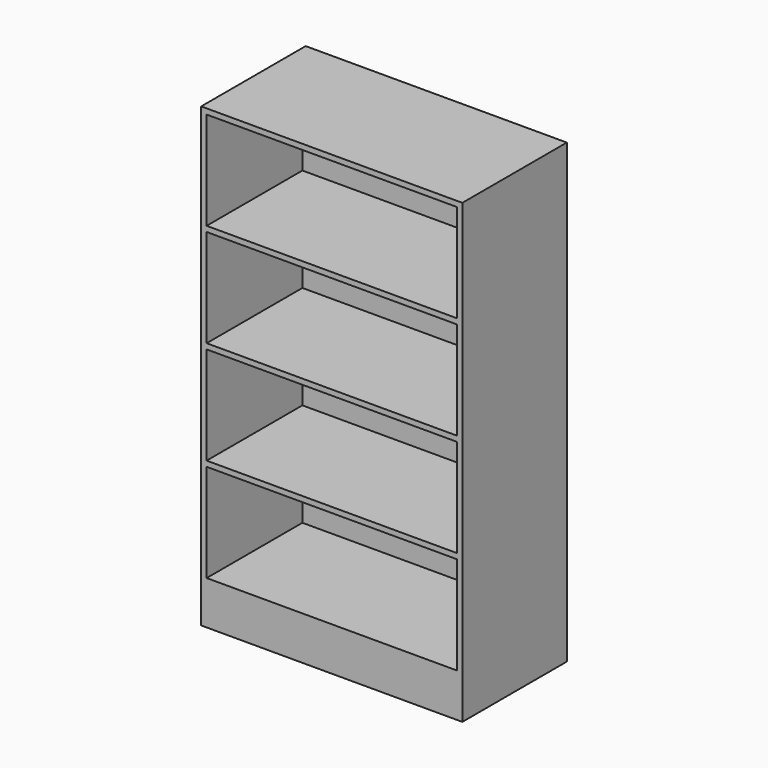
from build123d import *

# Parameters (mm, degrees)
BOX022_W     = 1168.4
BOX022_H     = 558.8
BOX022_DEPTH = 457.2
BOX021_W     = 1168.4
BOX021_H     = 558.8
BOX021_DEPTH = 457.2
BOX020_W     = 1168.4
BOX020_H     = 558.8
BOX020_DEPTH = 457.2
BOX019_W     = 1168.4
BOX019_H     = 558.8
BOX019_DEPTH = 457.2
BOX018_W     = 1219.2
BOX018_H     = 609.6
BOX018_DEPTH = 2133.6


with BuildPart() as cube022:
    # Box022 → Box022 (new body)
    with BuildSketch(Plane(origin=(25.4, 0, 1651), x_dir=(1, 0, 0), z_dir=(0, 0, 1))):
        with Locations((584.2, 279.4)):
            Rectangle(BOX022_W, BOX022_H)
    extrude(amount=BOX022_DEPTH)


with BuildPart() as cube021:
    # Box021 → Box021 (new body)
    with BuildSketch(Plane(origin=(25.4, 0, 685.8), x_dir=(1, 0, 0), z_dir=(0, 0, 1))):
        with Locations((584.2, 279.4)):
            Rectangle(BOX021_W, BOX021_H)
    extrude(amount=BOX021_DEPTH)


with BuildPart() as cube020:
    # Box020 → Box020 (new body)
    with BuildSketch(Plane(origin=(25.4, 0, 203.2), x_dir=(1, 0, 0), z_dir=(0, 0, 1))):
        with Locations((584.2, 279.4)):
            Rectangle(BOX020_W, BOX020_H)
    extrude(amount=BOX020_DEPTH)


with BuildPart() as cube019:
    # Box019 → Box019 (new body)
    with BuildSketch(Plane(origin=(25.4, 0, 1168.4), x_dir=(1, 0, 0), z_dir=(0, 0, 1))):
        with Locations((584.2, 279.4)):
            Rectangle(BOX019_W, BOX019_H)
    extrude(amount=BOX019_DEPTH)


with BuildPart() as cut009:
    # Box018 → Box018 (new body)
    with BuildSketch(Plane.XY):
        with Locations((609.6, 304.8)):
            Rectangle(BOX018_W, BOX018_H)
    extrude(amount=BOX018_DEPTH)

    # Cut006: cut Cube019
    add(cube019.part, mode=Mode.SUBTRACT)

    # Cut007: cut Cube020
    add(cube020.part, mode=Mode.SUBTRACT)

    # Cut008: cut Cube021
    add(cube021.part, mode=Mode.SUBTRACT)

    # Cut009: cut Cube022
    add(cube022.part, mode=Mode.SUBTRACT)


with BuildPart() as cut009_1:
    # Cut009 placement: moved
    add(cut009.part.moved(Location((3792, 4261, 0))))


solid = cut009_1.part
